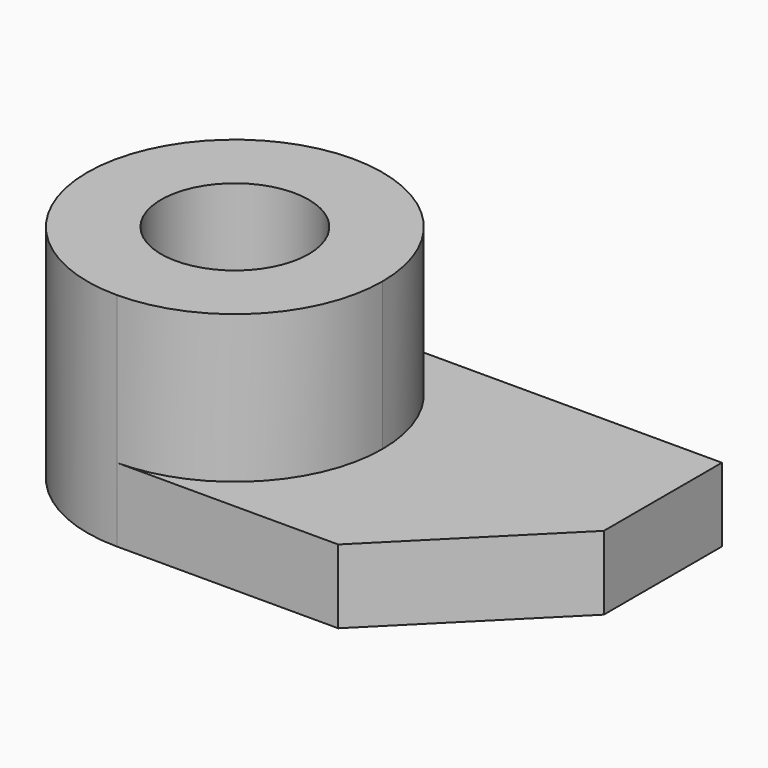
from build123d import *

# Parameters (mm, degrees)
F1_DEPTH = 6.35
F0_R     = 6.35
F2_DEPTH = 19.05
F4_DEPTH = 19.051


with BuildPart() as f1:
    # F0 (on Top) → F1 (new body)
    with BuildSketch(Plane.XY):
        with BuildLine():
            Line((44.45, 0), (12.7, 0))
            ThreePointArc((12.7, 0), (21.680256, -3.719744), (25.4, -12.7))
            ThreePointArc((25.4, -12.7), (21.680256, -21.680256), (12.7, -25.4))
            Line((12.7, -25.4), (44.45, -25.4))
            Line((44.45, -25.4), (44.45, 0))
        make_face()
    extrude(amount=F1_DEPTH)

    # F0 (on Top) → F2 (join)
    with BuildSketch(Plane.XY):
        with BuildLine():
            ThreePointArc((25.4, -12.7), (21.680256, -3.719744), (12.7, 0))
            ThreePointArc((12.7, 0), (3.719744, -3.719744), (0, -12.7))
            ThreePointArc((0, -12.7), (3.719744, -21.680256), (12.7, -25.4))
            ThreePointArc((12.7, -25.4), (21.680256, -21.680256), (25.4, -12.7))
        make_face()
        with Locations((12.7, -12.7)):
            Circle(F0_R, mode=Mode.SUBTRACT)
    extrude(amount=F2_DEPTH)

    # F3 (on Top) → F4 (cut, through all)
    with BuildSketch(Plane.XY):
        Polygon((44.45, -12.7), (31.75, -25.4), (44.45, -25.4), align=None)
    extrude(amount=F4_DEPTH, mode=Mode.SUBTRACT)


solid = f1.part
